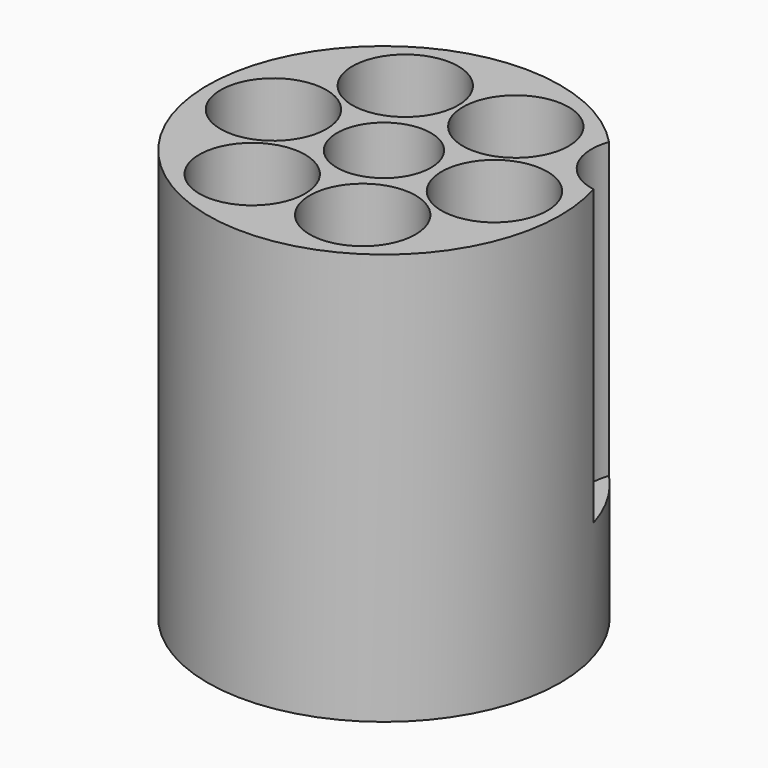
from build123d import *

# Parameters (mm, degrees)
F0_R     = 15
F0_R_2   = 4.5
F0_R_3   = 4
F1_DEPTH = 35
F3_DEPTH = 25


with BuildPart() as f1:
    # F0 (on Top) → F1 (new body)
    with BuildSketch(Plane.XY):
        Circle(F0_R)
        with Locations((-4.7, -8.140639)):
            Circle(F0_R_2, mode=Mode.SUBTRACT)
        with Locations((4.7, -8.140639)):
            Circle(F0_R_2, mode=Mode.SUBTRACT)
        with Locations((-9.4, 0)):
            Circle(F0_R_2, mode=Mode.SUBTRACT)
        with Locations((-4.7, 8.140639)):
            Circle(F0_R_2, mode=Mode.SUBTRACT)
        Circle(F0_R_3, mode=Mode.SUBTRACT)
        with Locations((9.4, 0)):
            Circle(F0_R_2, mode=Mode.SUBTRACT)
        with Locations((4.7, 8.140639)):
            Circle(F0_R_2, mode=Mode.SUBTRACT)
    extrude(amount=F1_DEPTH)

    # F2 (on face) → F3 (cut)
    with BuildSketch(Plane.XY.offset(35)):
        with BuildLine():
            ThreePointArc((14.364436, 4.320067), (12.990381, 7.5), (10.923506, 10.279933))
            ThreePointArc((10.923506, 10.279933), (11.25833, 6.5), (14.364436, 4.320067))
        make_face()
    extrude(amount=-F3_DEPTH, mode=Mode.SUBTRACT)


solid = f1.part
